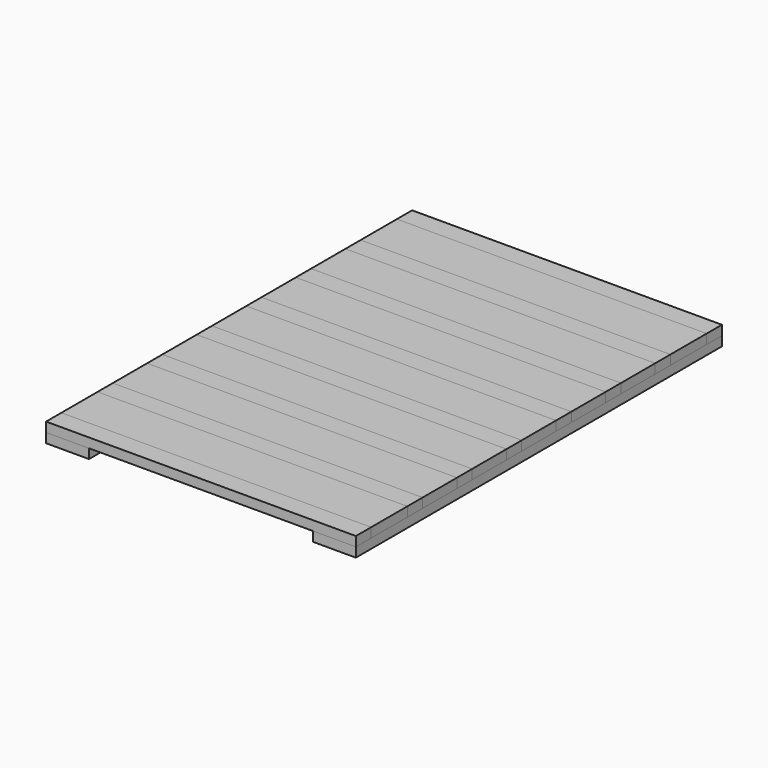
from build123d import *

# Parameters (mm, degrees)
F0_W     = 650
F0_H     = 40
F1_DEPTH = 20
F0_H_2   = 95
F2_DEPTH = 20
F0_H_3   = 90
F3_W     = 90
F3_H     = 175
F3_H_2   = 90
F3_H_3   = 695
F4_DEPTH = 20


with BuildPart() as f1:
    # F0 (on Top) → F1 (new body)
    with BuildSketch(Plane.XY):
        with Locations((51.8519654549, 536.8375853449)):
            Rectangle(F0_W, F0_H)
    extrude(amount=F1_DEPTH)


with BuildPart() as f1b:
    # F0 (on Top) → F1, piece 2 (new body)
    with BuildSketch(Plane.XY):
        with Locations((51.8519654549, 401.8375853449)):
            Rectangle(F0_W, F0_H)
    extrude(amount=F1_DEPTH)


with BuildPart() as f1c:
    # F0 (on Top) → F1, piece 3 (new body)
    with BuildSketch(Plane.XY):
        with Locations((51.8519654549, 271.8375853449)):
            Rectangle(F0_W, F0_H)
    extrude(amount=F1_DEPTH)


with BuildPart() as f1d:
    # F0 (on Top) → F1, piece 4 (new body)
    with BuildSketch(Plane.XY):
        with Locations((51.8519654549, 141.8375853449)):
            Rectangle(F0_W, F0_H)
    extrude(amount=F1_DEPTH)


with BuildPart() as f1e:
    # F0 (on Top) → F1, piece 5 (new body)
    with BuildSketch(Plane.XY):
        with Locations((51.8519654549, 11.8375853449)):
            Rectangle(F0_W, F0_H)
    extrude(amount=F1_DEPTH)


with BuildPart() as f1f:
    # F0 (on Top) → F1, piece 6 (new body)
    with BuildSketch(Plane.XY):
        with Locations((51.8519654549, -118.1624146551)):
            Rectangle(F0_W, F0_H)
    extrude(amount=F1_DEPTH)


with BuildPart() as f1g:
    # F0 (on Top) → F1, piece 7 (new body)
    with BuildSketch(Plane.XY):
        with Locations((51.8519654549, -248.1624146551)):
            Rectangle(F0_W, F0_H)
    extrude(amount=F1_DEPTH)


with BuildPart() as f1h:
    # F0 (on Top) → F1, piece 8 (new body)
    with BuildSketch(Plane.XY):
        with Locations((51.8519654549, -383.1624146551)):
            Rectangle(F0_W, F0_H)
    extrude(amount=F1_DEPTH)


with BuildPart() as f2:
    # F0 (on Top) → F2 (new body)
    with BuildSketch(Plane.XY):
        with Locations((51.8519654549, 469.3375853449)):
            Rectangle(F0_W, F0_H_2)
    extrude(amount=F2_DEPTH)


with BuildPart() as f2b:
    # F0 (on Top) → F2, piece 2 (new body)
    with BuildSketch(Plane.XY):
        with Locations((51.8519654549, 336.8375853449)):
            Rectangle(F0_W, F0_H_3)
    extrude(amount=F2_DEPTH)


with BuildPart() as f2c:
    # F0 (on Top) → F2, piece 3 (new body)
    with BuildSketch(Plane.XY):
        with Locations((51.8519654549, 206.8375853449)):
            Rectangle(F0_W, F0_H_3)
    extrude(amount=F2_DEPTH)


with BuildPart() as f2d:
    # F0 (on Top) → F2, piece 4 (new body)
    with BuildSketch(Plane.XY):
        with Locations((51.8519654549, 76.8375853449)):
            Rectangle(F0_W, F0_H_3)
    extrude(amount=F2_DEPTH)


with BuildPart() as f2e:
    # F0 (on Top) → F2, piece 5 (new body)
    with BuildSketch(Plane.XY):
        with Locations((51.8519654549, -53.1624146551)):
            Rectangle(F0_W, F0_H_3)
    extrude(amount=F2_DEPTH)


with BuildPart() as f2f:
    # F0 (on Top) → F2, piece 6 (new body)
    with BuildSketch(Plane.XY):
        with Locations((51.8519654549, -183.1624146551)):
            Rectangle(F0_W, F0_H_3)
    extrude(amount=F2_DEPTH)


with BuildPart() as f2g:
    # F0 (on Top) → F2, piece 7 (new body)
    with BuildSketch(Plane.XY):
        with Locations((51.8519654549, -315.6624146551)):
            Rectangle(F0_W, F0_H_2)
    extrude(amount=F2_DEPTH)


with BuildPart() as f4:
    # F3 (on face) → F4 (new body)
    with BuildSketch(Plane(origin=(0, 0, 0), x_dir=(1, 0, 0), z_dir=(0, 0, -1))):
        with Locations((331.8519654549, -469.3375853449)):
            Rectangle(F3_W, F3_H)
        with Locations((331.8519654549, -336.8375853449)):
            Rectangle(F3_W, F3_H_2)
        with Locations((331.8519654549, 55.6624146551)):
            Rectangle(F3_W, F3_H_3)
    extrude(amount=F4_DEPTH)


with BuildPart() as f4b:
    # F3 (on face) → F4, piece 2 (new body)
    with BuildSketch(Plane(origin=(0, 0, 0), x_dir=(1, 0, 0), z_dir=(0, 0, -1))):
        with Locations((-228.1480345451, 55.6624146551)):
            Rectangle(F3_W, F3_H_3)
        with Locations((-228.1480345451, -336.8375853449)):
            Rectangle(F3_W, F3_H_2)
        with Locations((-228.1480345451, -469.3375853449)):
            Rectangle(F3_W, F3_H)
    extrude(amount=F4_DEPTH)


solid = Compound([f1.part, f1b.part, f1c.part, f1d.part, f1e.part, f1f.part, f1g.part, f1h.part, f2.part, f2b.part, f2c.part, f2d.part, f2e.part, f2f.part, f2g.part, f4.part, f4b.part])
